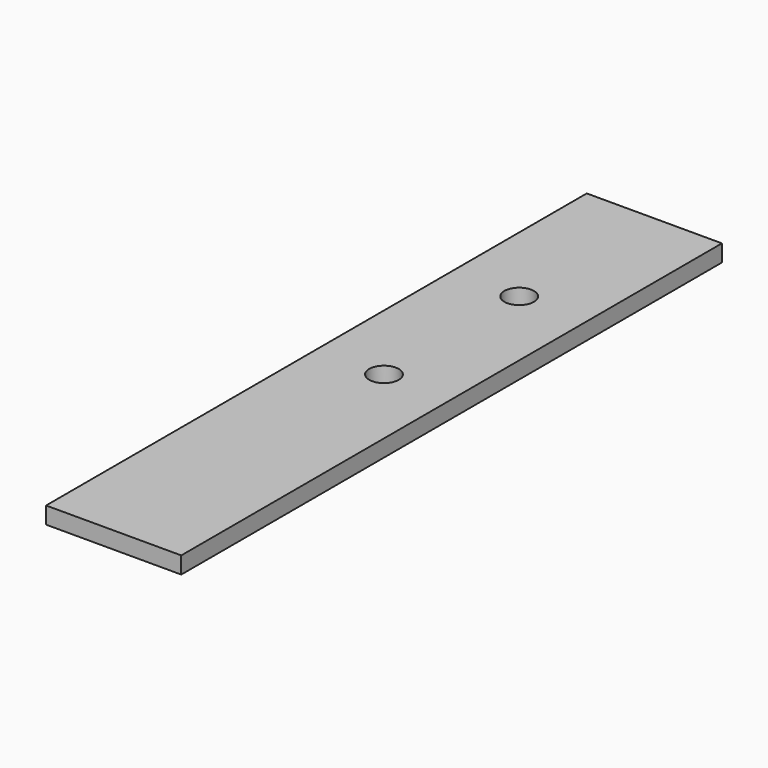
from build123d import *

# Parameters (mm, degrees)
F0_W     = 50.8
F0_H     = 6.35
F1_DEPTH = 127
F2_R     = 5.55625
F3_DEPTH = 6.351


with BuildPart() as f1:
    # F0 (on Front) → F1 (new body, symmetric)
    with BuildSketch(Plane.XZ):
        Rectangle(F0_W, F0_H)
    extrude(amount=F1_DEPTH, both=True)

    # F2 (on face) → F3 (cut, through all)
    with BuildSketch(Plane.XY.offset(3.175)):
        with Locations((0, 63.5)):
            Circle(F2_R)
        Circle(F2_R)
    extrude(amount=-F3_DEPTH, mode=Mode.SUBTRACT)


solid = f1.part
